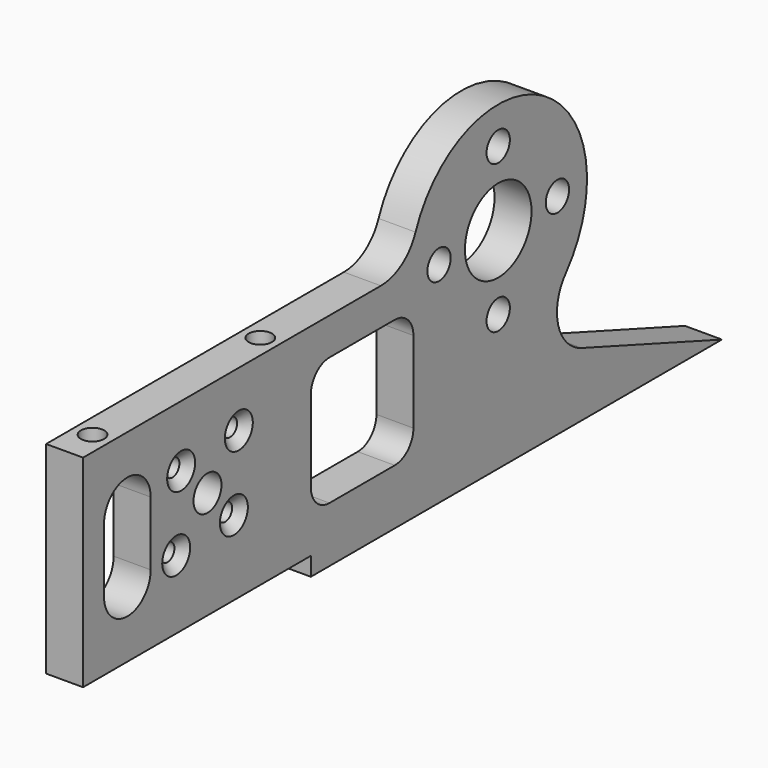
from build123d import *

# Parameters (mm, degrees)
F0_R           = 3
F0_R_2         = 2.5
F0_R_3         = 7.14375
F1_DEPTH       = 6.35
F3_D           = 3
F3_CSINK_D     = 6
F3_CSINK_ANGLE = 90
F5_DEPTH       = 25
F6_W           = 6.35
F6_H           = 38
F7_DEPTH       = 37.876
F9_D           = 4
F9_DEPTH       = 12
F9_TIP         = 1.2017212381
F11_D          = 4
F11_DEPTH      = 12
F11_TIP        = 1.2017212381


with BuildPart() as f1:
    # F0 (on Right) → F1 (new body)
    with BuildSketch(Plane.YZ):
        with BuildLine():
            ThreePointArc((17.8751346366, -25.0354456965), (12.8773903734, -19.5640491806), (14.5155336292, -12.3370086917))
            ThreePointArc((14.5155336292, -12.3370086917), (9.7791608288, 16.348410121), (-17.735210007, 6.9544824399))
            ThreePointArc((-17.735210007, 6.9544824399), (-20.675525796, 3.2657587243), (-25.1830672278, 1.875))
            Line((-25.1830672278, 1.875), (-127.0762324528, 1.875))
            Line((-127.0762324528, 1.875), (-127.0762324528, -4.475))
            Line((-127.0762324528, -4.475), (-93.0762324528, -4.475))
            ThreePointArc((-93.0762324528, -4.475), (-90.247805328, -5.6465728753), (-89.0762324528, -8.475))
            Line((-89.0762324528, -8.475), (-89.0762324528, -22.475))
            ThreePointArc((-89.0762324528, -22.475), (-90.247805328, -25.3034271247), (-93.0762324528, -26.475))
            Line((-93.0762324528, -26.475), (-127.0762324528, -26.475))
            Line((-127.0762324528, -26.475), (-127.0762324528, -32.825))
            Line((-127.0762324528, -32.825), (-40.201, -32.825))
            Line((-40.201, -32.825), (-40.201, -36))
            Line((-40.201, -36), (48, -36))
            Line((48, -36), (17.8751346366, -25.0354456965))
        make_face()
        with Locations((-62.3762324528, -14.325)):
            Circle(F0_R, mode=Mode.SUBTRACT)
        with BuildLine():
            ThreePointArc((-40.201, -8.475), (-39.0294271247, -5.6465728753), (-36.201, -4.475))
            Line((-36.201, -4.475), (-22.201, -4.475))
            ThreePointArc((-22.201, -4.475), (-19.3725728753, -5.6465728753), (-18.201, -8.475))
            Line((-18.201, -8.475), (-18.201, -22.475))
            ThreePointArc((-18.201, -22.475), (-19.3725728753, -25.3034271247), (-22.201, -26.475))
            Line((-22.201, -26.475), (-36.201, -26.475))
            ThreePointArc((-36.201, -26.475), (-39.0294271247, -25.3034271247), (-40.201, -22.475))
            Line((-40.201, -22.475), (-40.201, -8.475))
        make_face(mode=Mode.SUBTRACT)
        with Locations((0, -12.7)):
            Circle(F0_R_2, mode=Mode.SUBTRACT)
        with Locations((-12.7, 0)):
            Circle(F0_R_2, mode=Mode.SUBTRACT)
        Circle(F0_R_3, mode=Mode.SUBTRACT)
        with Locations((12.7, 0)):
            Circle(F0_R_2, mode=Mode.SUBTRACT)
        with Locations((0, 12.7)):
            Circle(F0_R_2, mode=Mode.SUBTRACT)
    extrude(amount=F1_DEPTH)

    # F3 (through all)
    with Locations(Plane.YZ.offset(6.35)):
        with Locations((-55.6587180315, -7.6074855787), (-68.0330867022, -8.6681457505), (-69.093746874, -21.0425144213), (-56.7193782033, -19.9818542495)):
            CounterSinkHole(F3_D / 2, F3_CSINK_D / 2, counter_sink_angle=F3_CSINK_ANGLE)

    # F4 (on face) → F5 (cut)
    with BuildSketch(Plane.YZ.offset(6.35)):
        with BuildLine():
            ThreePointArc((-74.5762324528, -9.975), (-79.5762324528, -4.975), (-84.5762324528, -9.975))
            Line((-84.5762324528, -9.975), (-84.5762324528, -20.975))
            ThreePointArc((-84.5762324528, -20.975), (-79.5762324528, -25.975), (-74.5762324528, -20.975))
            Line((-74.5762324528, -20.975), (-74.5762324528, -9.975))
        make_face()
    extrude(amount=-F5_DEPTH, mode=Mode.SUBTRACT)

    # F6 (on face) → F7 (cut, through all)
    with BuildSketch(Plane.XY.offset(1.875)):
        with Locations((3.175, -108.0762324528)):
            Rectangle(F6_W, F6_H)
    extrude(amount=-F7_DEPTH, mode=Mode.SUBTRACT)

    # F9
    with Locations(Plane.XY.offset(1.875)):
        with Locations((3.175, -47.0762324528), (3.175, -83.0762324528)):
            Hole(F9_D / 2, depth=F9_DEPTH)
            with Locations((0, 0, -(F9_DEPTH + F9_TIP / 2))):  # 118° drill point
                Cone(0, F9_D / 2, F9_TIP, mode=Mode.SUBTRACT)

    # F11
    with Locations(Plane(origin=(0, 0, -32.825), x_dir=(1, 0, 0), z_dir=(0, 0, -1))):
        with Locations((3.175, 47.0762324528), (3.175, 83.0762324528)):
            Hole(F11_D / 2, depth=F11_DEPTH)
            with Locations((0, 0, -(F11_DEPTH + F11_TIP / 2))):  # 118° drill point
                Cone(0, F11_D / 2, F11_TIP, mode=Mode.SUBTRACT)


solid = f1.part
